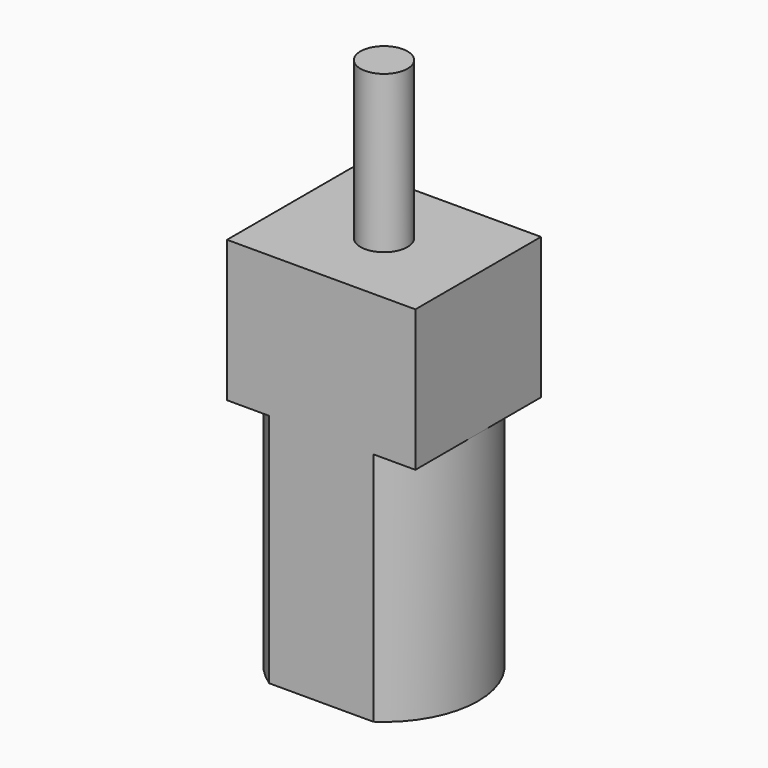
from build123d import *

# Parameters (mm, degrees)
F1_DEPTH = 15
F2_W     = 11.99975
F2_H     = 10
F3_DEPTH = 9
F4_R     = 1.5
F5_DEPTH = 10


with BuildPart() as f1:
    # F0 (on Top) → F1 (new body)
    with BuildSketch(Plane.XY):
        with BuildLine():
            Line((3.3165, 5), (-3.3165, 5))
            ThreePointArc((-3.3165, 5), (-5.999875, 0), (-3.3165, -5))
            Line((-3.3165, -5), (3.3165, -5))
            ThreePointArc((3.3165, -5), (5.999875, 0), (3.3165, 5))
        make_face()
    extrude(amount=F1_DEPTH)

    # F2 (on face) → F3 (join)
    with BuildSketch(Plane.XY.offset(15)):
        Rectangle(F2_W, F2_H)
    extrude(amount=F3_DEPTH)

    # F4 (on face) → F5 (join)
    with BuildSketch(Plane.XY.offset(24)):
        Circle(F4_R)
    extrude(amount=F5_DEPTH)


solid = f1.part
